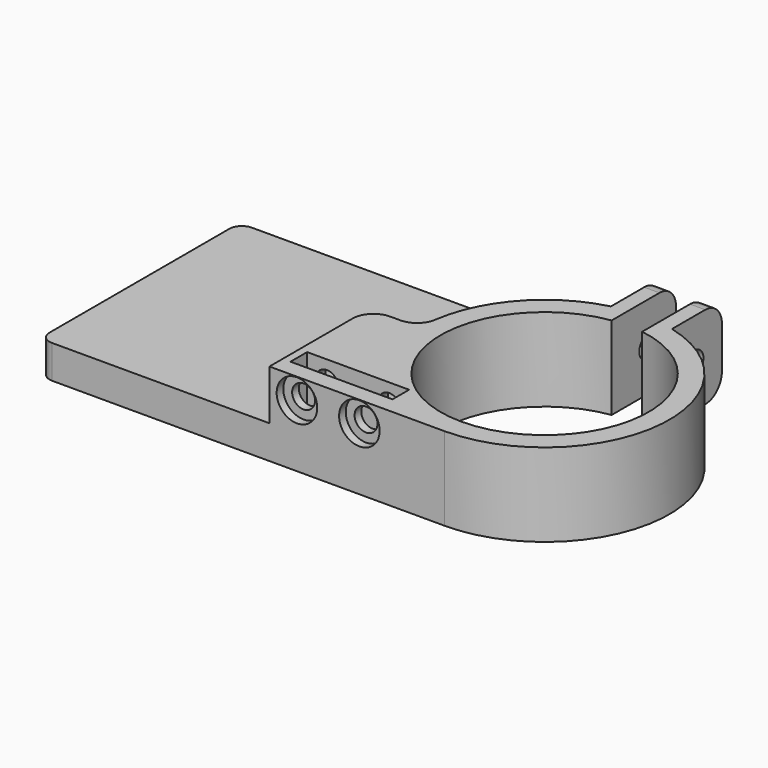
from build123d import *

# Parameters (mm, degrees)
F1_DEPTH        = 20
F2_DEPTH        = 8
F3_DEPTH        = 20
F4_R            = 5
F6_D            = 5.5
F7_R            = 5
F8_W            = 24.5
F8_H            = 5
F9_DEPTH        = 25
F11_D           = 5.5
F11_DEPTH       = 12
F11_CBORE_D     = 9.75
F11_CBORE_DEPTH = 2
F11_TIP         = 1.6523667023


with BuildPart() as f1:
    # F0 (on Top) → F1 (new body)
    with BuildSketch(Plane.XY):
        with BuildLine():
            Line((-7.3353787871, 29.9999998754), (-7.3353787871, 29.0893831246))
            ThreePointArc((-7.3353787871, 29.0893831246), (-23.6649673064, 18.4382568295), (-29.9999998754, 0))
            ThreePointArc((-29.9999998754, 0), (-21.2132033475, -21.2132033475), (0, -29.9999998754))
            ThreePointArc((0, -29.9999998754), (29.7714752963, -3.6958424215), (7.3353787871, 29.0893831246))
            Line((7.3353787871, 29.0893831246), (7.3353787871, 44.0893831246))
            Line((7.3353787871, 44.0893831246), (3.6676893936, 44.0893831246))
            Line((3.6676893936, 44.0893831246), (3.6676893936, 24.7294976599))
            ThreePointArc((3.6676893936, 24.7294976599), (0, -25), (-3.6676893936, 24.7294976599))
            Line((-3.6676893936, 24.7294976599), (-3.6676893936, 44.0893831246))
            Line((-3.6676893936, 44.0893831246), (-7.3353787871, 44.0893831246))
            Line((-7.3353787871, 44.0893831246), (-7.3353787871, 29.9999998754))
        make_face()
    extrude(amount=F1_DEPTH)

    # F0 (on Top) → F2 (join)
    with BuildSketch(Plane.XY):
        with BuildLine():
            Line((-7.3353787871, 29.9999998754), (-7.3353787871, 29.0893831246))
            ThreePointArc((-7.3353787871, 29.0893831246), (-23.6649673064, 18.4382568295), (-29.9999998754, 0))
            ThreePointArc((-29.9999998754, 0), (-21.2132033475, -21.2132033475), (0, -29.9999998754))
            ThreePointArc((0, -29.9999998754), (29.7714752963, -3.6958424215), (7.3353787871, 29.0893831246))
            Line((7.3353787871, 29.0893831246), (7.3353787871, 44.0893831246))
            Line((7.3353787871, 44.0893831246), (3.6676893936, 44.0893831246))
            Line((3.6676893936, 44.0893831246), (3.6676893936, 24.7294976599))
            ThreePointArc((3.6676893936, 24.7294976599), (0, -25), (-3.6676893936, 24.7294976599))
            Line((-3.6676893936, 24.7294976599), (-3.6676893936, 44.0893831246))
            Line((-3.6676893936, 44.0893831246), (-7.3353787871, 44.0893831246))
            Line((-7.3353787871, 44.0893831246), (-7.3353787871, 29.9999998754))
        make_face()
        with BuildLine():
            ThreePointArc((-29.9999998754, 0), (-23.6649673064, 18.4382568295), (-7.3353787871, 29.0893831246))
            Line((-7.3353787871, 29.0893831246), (-7.3353787871, 29.9999998754))
            Line((-7.3353787871, 29.9999998754), (-94.3353787871, 29.9999998754))
            ThreePointArc((-94.3353787871, 29.9999998754), (-96.4566991307, 29.1213202189), (-97.3353787871, 26.9999998754))
            Line((-97.3353787871, 26.9999998754), (-97.3353787871, -26.9999998754))
            ThreePointArc((-97.3353787871, -26.9999998754), (-96.4566991307, -29.1213202189), (-94.3353787871, -29.9999998754))
            Line((-94.3353787871, -29.9999998754), (-42.1122722328, -29.9999998754))
            Line((-42.1122722328, -29.9999998754), (-42.1122722328, 0))
            Line((-42.1122722328, 0), (-29.9999998754, 0))
        make_face()
        with BuildLine():
            ThreePointArc((0, -29.9999998754), (-21.2132033475, -21.2132033475), (-29.9999998754, 0))
            Line((-29.9999998754, 0), (-42.1122722328, 0))
            Line((-42.1122722328, 0), (-42.1122722328, -29.9999998754))
            Line((-42.1122722328, -29.9999998754), (0, -29.9999998754))
        make_face()
    extrude(amount=F2_DEPTH)

    # F0 (on Top) → F3 (join)
    with BuildSketch(Plane.XY):
        with BuildLine():
            ThreePointArc((0, -29.9999998754), (-21.2132033475, -21.2132033475), (-29.9999998754, 0))
            Line((-29.9999998754, 0), (-42.1122722328, 0))
            Line((-42.1122722328, 0), (-42.1122722328, -29.9999998754))
            Line((-42.1122722328, -29.9999998754), (0, -29.9999998754))
        make_face()
    extrude(amount=F3_DEPTH)

    # F4
    f4_edges = [f1.edges().sort_by_distance(p)[0] for p in [
        (5.501534, 44.089383, 0),
        (-5.501534, 44.089383, 0),
        (-5.501534, 44.089383, 20),
        (5.501534, 44.089383, 20),
    ]]
    fillet(f4_edges, radius=F4_R)

    # F6 (through all)
    with Locations(Plane.YZ.offset(7.3353787871)):
        with Locations((35.7856750488, 10)):
            Hole(F6_D / 2)

    # F7
    f7_edges = [f1.edges().sort_by_distance(p)[0] for p in [
        (-42.112272, 0, 14),
        (-30, 0, 14),
    ]]
    fillet(f7_edges, radius=F7_R)

    # F8 (on face) → F9 (cut)
    with BuildSketch(Plane(origin=(0, 0, 0), x_dir=(1, 0, 0), z_dir=(0, 0, -1))):
        with Locations((-28, 23.4999998754)):
            Rectangle(F8_W, F8_H)
    extrude(amount=-F9_DEPTH, mode=Mode.SUBTRACT)

    # F11
    with Locations(Plane.XZ.offset(29.9999998754)):
        with Locations((-35.5, 15), (-20.5, 15)):
            CounterBoreHole(F11_D / 2, F11_CBORE_D / 2, F11_CBORE_DEPTH, depth=F11_DEPTH)
            with Locations((0, 0, -(F11_DEPTH + F11_TIP / 2))):  # 118° drill point
                Cone(0, F11_D / 2, F11_TIP, mode=Mode.SUBTRACT)


solid = f1.part
